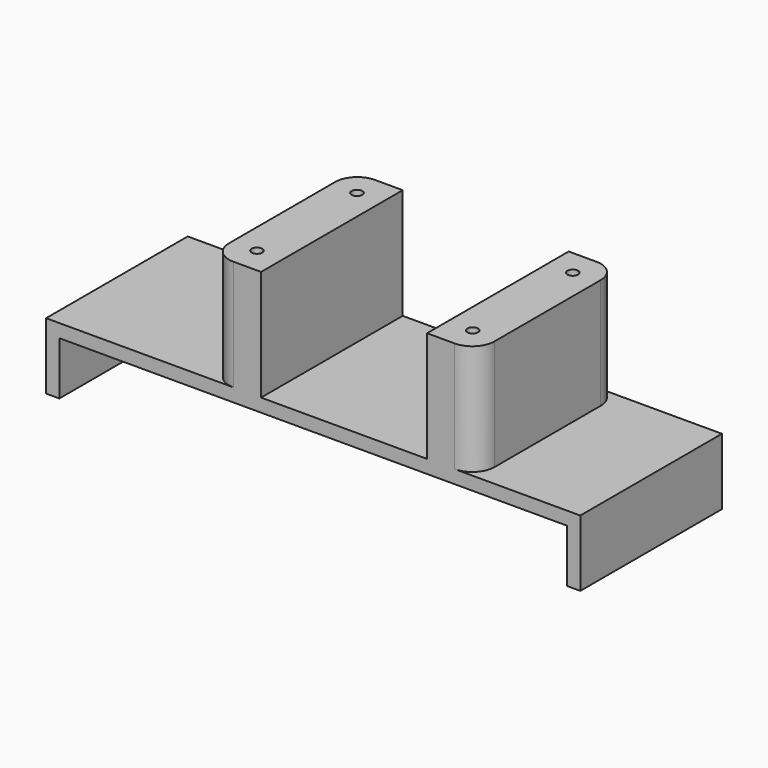
from build123d import *

# Parameters (mm, degrees)
F1_DEPTH = 40
F2_W     = 11.2577080727
F2_H     = 40
F2_W_2   = 11.2422919273
F3_DEPTH = 25
F5_D     = 2.4
F5_DEPTH = 10
F5_TIP   = 0.7210327428
F6_R     = 5


with BuildPart() as f1:
    # F0 (on Front) → F1 (new body)
    with BuildSketch(Plane.XZ):
        Polygon((60.35, 15), (-60.35, 15), (-60.35, 0), (-57.35, 0), (-57.35, 12), (57.35, 12), (57.35, 0), (60.35, 0), align=None)
    extrude(amount=F1_DEPTH)

    # F2 (on face) → F3 (join)
    with BuildSketch(Plane.XY.offset(15)):
        with Locations((-17.4, -20)):
            Rectangle(F2_W, F2_H)
        with Locations((31.35, -20)):
            Rectangle(F2_W_2, F2_H)
    extrude(amount=F3_DEPTH)

    # F5
    with Locations(Plane.XY.offset(40)):
        with Locations((-17.4, -5.875), (31.35, -5.875), (31.35, -34.125), (-17.4, -34.125)):
            Hole(F5_D / 2, depth=F5_DEPTH)
            with Locations((0, 0, -(F5_DEPTH + F5_TIP / 2))):  # 118° drill point
                Cone(0, F5_D / 2, F5_TIP, mode=Mode.SUBTRACT)

    # F6
    f6_edges = [f1.edges().sort_by_distance(p)[0] for p in [
        (-23.028854, 0, 27.5),
        (36.971146, 0, 27.5),
        (36.971146, -40, 27.5),
        (-23.028854, -40, 27.5),
    ]]
    fillet(f6_edges, radius=F6_R)


solid = f1.part
